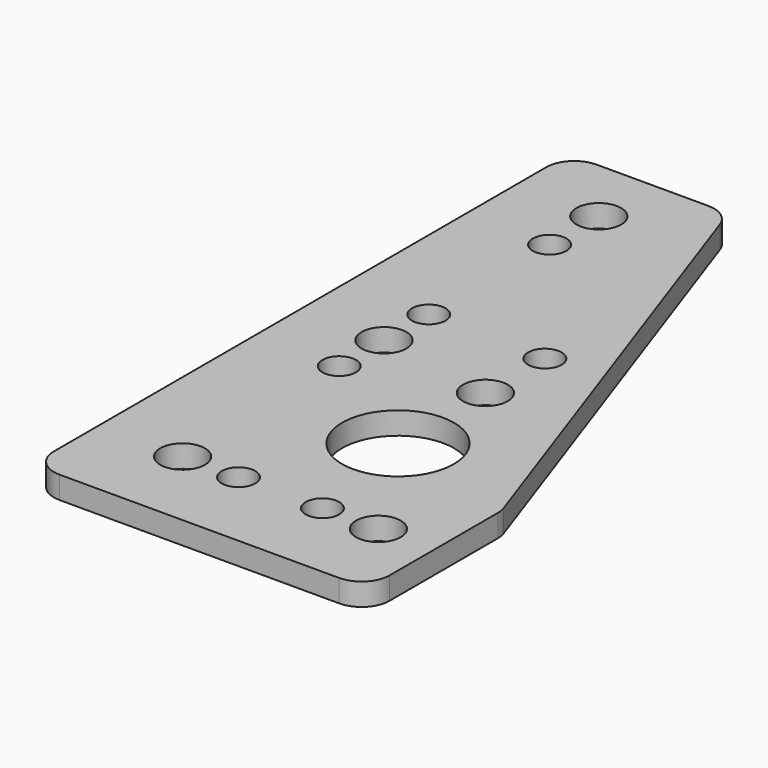
from build123d import *

# Parameters (mm, degrees)
F0_R     = 4
F0_R_2   = 3
F0_R_3   = 10
F1_DEPTH = 4


with BuildPart() as f1:
    # F0 (on Top) → F1 (new body)
    with BuildSketch(Plane.XY):
        with BuildLine():
            ThreePointArc((0, 5), (1.464466, 1.464466), (5, 0))
            Line((5, 0), (55, 0))
            ThreePointArc((55, 0), (58.535534, 1.464466), (60, 5))
            Line((60, 5), (60, 29.188612))
            ThreePointArc((60, 29.188612), (59.929471, 30.025459), (59.719874, 30.838698))
            Line((59.719874, 30.838698), (29.719874, 116.650087))
            ThreePointArc((29.719874, 116.650087), (27.893922, 119.077403), (25, 120))
            Line((25, 120), (5, 120))
            ThreePointArc((5, 120), (1.464466, 118.535534), (0, 115))
            Line((0, 115), (0, 5))
        make_face()
        with Locations((15, 15)):
            Circle(F0_R, mode=Mode.SUBTRACT)
        with Locations((25, 15)):
            Circle(F0_R_2, mode=Mode.SUBTRACT)
        with Locations((15, 50)):
            Circle(F0_R_2, mode=Mode.SUBTRACT)
        with Locations((40, 15)):
            Circle(F0_R_2, mode=Mode.SUBTRACT)
        with Locations((50, 15)):
            Circle(F0_R, mode=Mode.SUBTRACT)
        with Locations((35.990281, 36.892906)):
            Circle(F0_R_3, mode=Mode.SUBTRACT)
        with Locations((35.990281, 56.421787)):
            Circle(F0_R, mode=Mode.SUBTRACT)
        with Locations((15, 60)):
            Circle(F0_R, mode=Mode.SUBTRACT)
        with Locations((15, 70)):
            Circle(F0_R_2, mode=Mode.SUBTRACT)
        with Locations((15, 97)):
            Circle(F0_R_2, mode=Mode.SUBTRACT)
        with Locations((15, 108)):
            Circle(F0_R, mode=Mode.SUBTRACT)
        with Locations((35.990281, 69.710411)):
            Circle(F0_R_2, mode=Mode.SUBTRACT)
    extrude(amount=F1_DEPTH)


solid = f1.part
